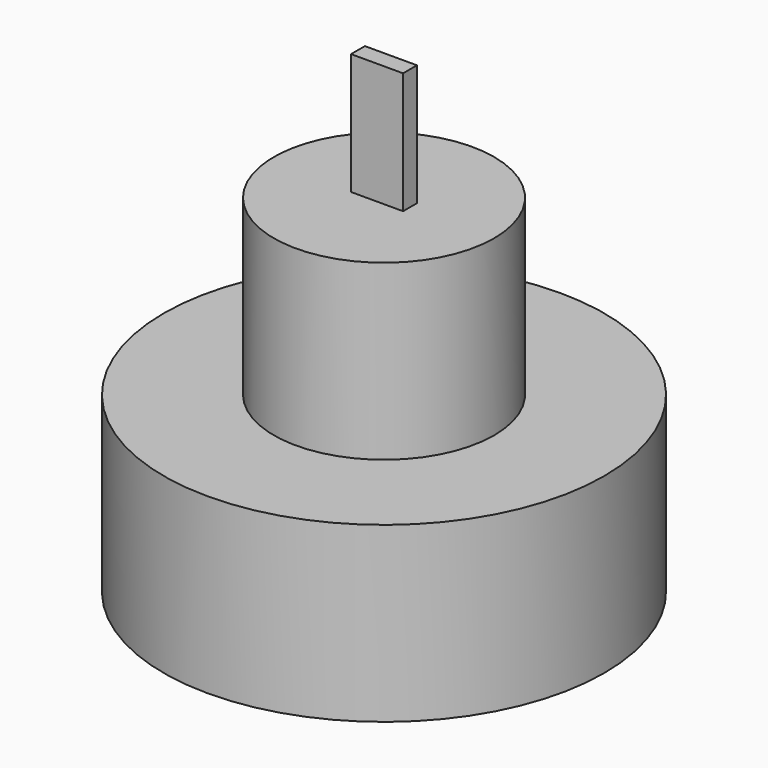
from build123d import *

# Parameters (mm, degrees)
F0_R     = 12.7
F0_R_2   = 6.35
F1_DEPTH = 10
F2_DEPTH = 20
F3_W     = 3
F3_H     = 1
F4_DEPTH = 7


with BuildPart() as f1:
    # F0 (on Top) → F1 (new body)
    with BuildSketch(Plane.XY):
        Circle(F0_R)
        Circle(F0_R_2, mode=Mode.SUBTRACT)
    extrude(amount=F1_DEPTH)

    # F0 (on Top) → F2 (join)
    with BuildSketch(Plane.XY):
        Circle(F0_R_2)
    extrude(amount=F2_DEPTH)

    # F3 (on face) → F4 (join)
    with BuildSketch(Plane.XY.offset(20)):
        Rectangle(F3_W, F3_H)
    extrude(amount=F4_DEPTH)


solid = f1.part
